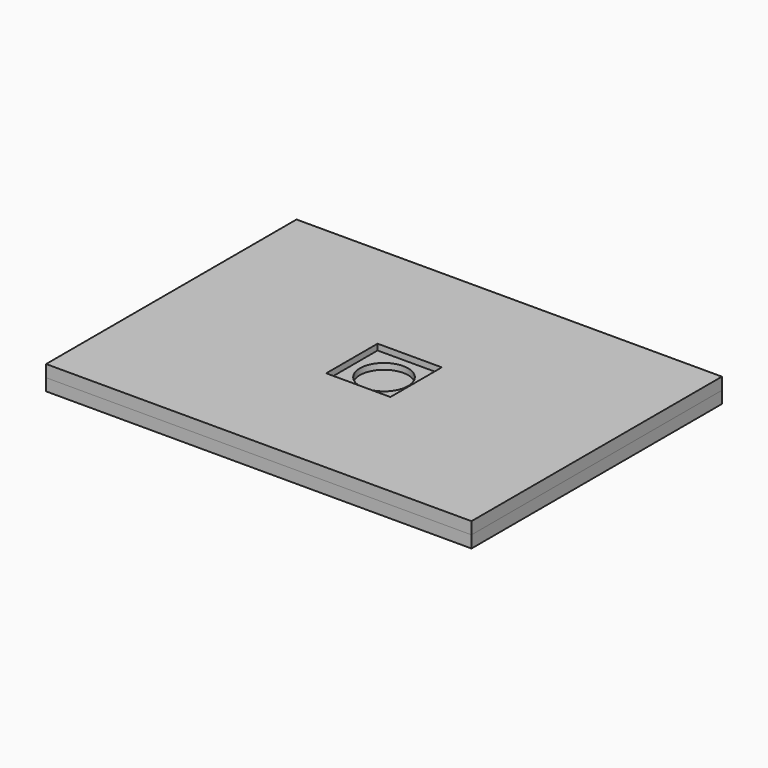
from build123d import *

# Parameters (mm, degrees)
F0_W     = 673.1
F0_H     = 495.3
F0_R     = 63.5
F1_DEPTH = 19.05
F3_DEPTH = 12.7
F4_W     = 673.1
F4_H     = 495.3
F4_R     = 38.1
F5_DEPTH = 19.05
F6_W     = 101.6
F6_H     = 101.6
F7_DEPTH = 9.525


with BuildPart() as f1:
    # F0 (on Top) → F1 (new body)
    with BuildSketch(Plane.XY):
        Rectangle(F0_W, F0_H)
        with Locations((-184.15, 0)):
            Circle(F0_R, mode=Mode.SUBTRACT)
    extrude(amount=F1_DEPTH)

    # F2 (on face) → F3 (cut)
    with BuildSketch(Plane.XY.offset(19.05)):
        with BuildLine():
            Line((-184.15, -63.5), (0, -63.5))
            ThreePointArc((0, -63.5), (63.5, 0), (0, 63.5))
            Line((0, 63.5), (-184.15, 63.5))
            ThreePointArc((-184.15, 63.5), (-247.65, 0), (-184.15, -63.5))
        make_face()
    extrude(amount=-F3_DEPTH, mode=Mode.SUBTRACT)


with BuildPart() as f5:
    # F4 (on face) → F5 (new body)
    with BuildSketch(Plane.XY.offset(19.05)):
        Rectangle(F4_W, F4_H)
        Circle(F4_R, mode=Mode.SUBTRACT)
    extrude(amount=F5_DEPTH)

    # F6 (on face) → F7 (cut)
    with BuildSketch(Plane.XY.offset(38.1)):
        Rectangle(F6_W, F6_H)
    extrude(amount=-F7_DEPTH, mode=Mode.SUBTRACT)


solid = Compound([f1.part, f5.part])
